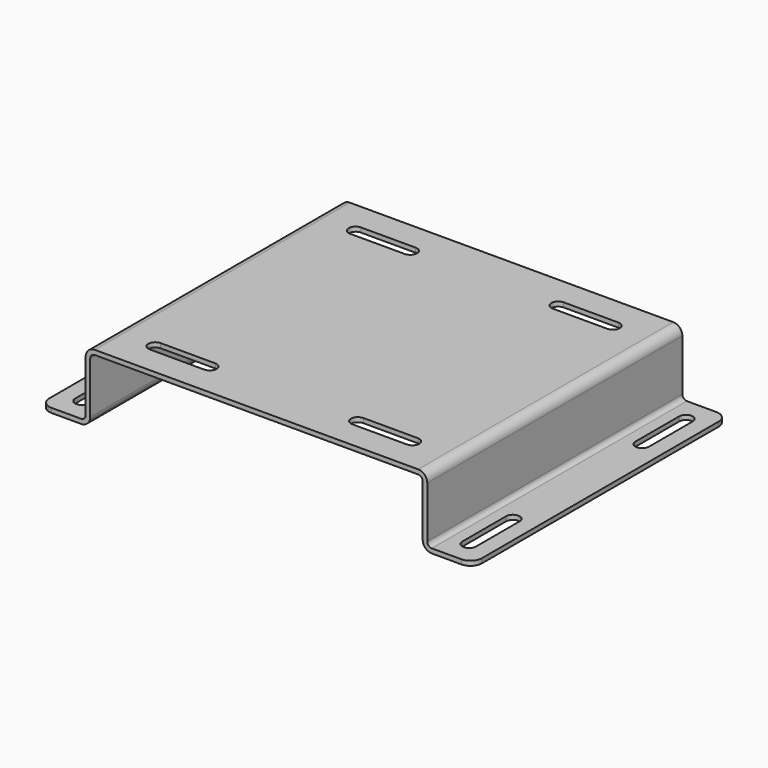
from build123d import *

# Parameters (mm, degrees)
F1_DEPTH = 70
F2_R     = 2
F3_R     = 4
F5_DEPTH = 25
F6_R     = 5
F8_DEPTH = 25


with BuildPart() as f1:
    # F0 (on Front) → F1 (new body, symmetric)
    with BuildSketch(Plane.XZ):
        Polygon((75, 15.3), (-75, 15.3), (-75, -13.3), (-95, -13.3), (-95, -15.3), (-75, -15.3), (-73, -15.3), (-73, -13.3), (-73, 13.3), (73, 13.3), (73, -13.3), (73, -15.3), (75, -15.3), (95, -15.3), (95, -13.3), (75, -13.3), align=None)
    extrude(amount=F1_DEPTH, both=True)

    # F2
    f2_edges = [f1.edges().sort_by_distance(p)[0] for p in [
        (-73, 0, 13.3),
        (73, 0, 13.3),
        (75, 0, -13.3),
        (-75, 0, -13.3),
    ]]
    fillet(f2_edges, radius=F2_R)

    # F3
    f3_edges = [f1.edges().sort_by_distance(p)[0] for p in [
        (-75, 0, 15.3),
        (-73, 0, -15.3),
        (73, 0, -15.3),
        (75, 0, 15.3),
    ]]
    fillet(f3_edges, radius=F3_R)

    # F4 (on face) → F5 (cut)
    with BuildSketch(Plane.XY.offset(-13.3)):
        with BuildLine():
            Line((-82, 35.5), (-82, 59.5))
            ThreePointArc((-82, 59.5), (-85, 62.5), (-88, 59.5))
            Line((-88, 59.5), (-88, 35.5))
            ThreePointArc((-88, 35.5), (-85, 32.5), (-82, 35.5))
        make_face()
        with BuildLine():
            Line((-88, -35.5), (-88, -59.5))
            ThreePointArc((-88, -59.5), (-85, -62.5), (-82, -59.5))
            Line((-82, -59.5), (-82, -35.5))
            ThreePointArc((-82, -35.5), (-85, -32.5), (-88, -35.5))
        make_face()
        with BuildLine():
            Line((82, -35.5), (82, -59.5))
            ThreePointArc((82, -59.5), (85, -62.5), (88, -59.5))
            Line((88, -59.5), (88, -35.5))
            ThreePointArc((88, -35.5), (85, -32.5), (82, -35.5))
        make_face()
        with BuildLine():
            ThreePointArc((88, 59.5), (85, 62.5), (82, 59.5))
            Line((82, 59.5), (82, 35.5))
            ThreePointArc((82, 35.5), (85, 32.5), (88, 35.5))
            Line((88, 35.5), (88, 59.5))
        make_face()
    extrude(amount=-F5_DEPTH, mode=Mode.SUBTRACT)

    # F6
    f6_edges = [f1.edges().sort_by_distance(p)[0] for p in [
        (-95, 70, -14.3),
        (95, 70, -14.3),
        (-95, -70, -14.3),
        (95, -70, -14.3),
    ]]
    fillet(f6_edges, radius=F6_R)

    # F7 (on face) → F8 (cut)
    with BuildSketch(Plane.XY.offset(15.3)):
        with BuildLine():
            Line((-56.5, 52), (-32.5, 52))
            ThreePointArc((-32.5, 52), (-29.5, 55), (-32.5, 58))
            Line((-32.5, 58), (-56.5, 58))
            ThreePointArc((-56.5, 58), (-59.5, 55), (-56.5, 52))
        make_face()
        with BuildLine():
            ThreePointArc((32.5, 58), (29.5, 55), (32.5, 52))
            Line((32.5, 52), (56.5, 52))
            ThreePointArc((56.5, 52), (59.5, 55), (56.5, 58))
            Line((56.5, 58), (32.5, 58))
        make_face()
        with BuildLine():
            Line((32.5, -58), (56.5, -58))
            ThreePointArc((56.5, -58), (59.5, -55), (56.5, -52))
            Line((56.5, -52), (32.5, -52))
            ThreePointArc((32.5, -52), (29.5, -55), (32.5, -58))
        make_face()
        with BuildLine():
            ThreePointArc((-32.5, -58), (-29.5, -55), (-32.5, -52))
            Line((-32.5, -52), (-56.5, -52))
            ThreePointArc((-56.5, -52), (-59.5, -55), (-56.5, -58))
            Line((-56.5, -58), (-32.5, -58))
        make_face()
    extrude(amount=-F8_DEPTH, mode=Mode.SUBTRACT)


solid = f1.part
